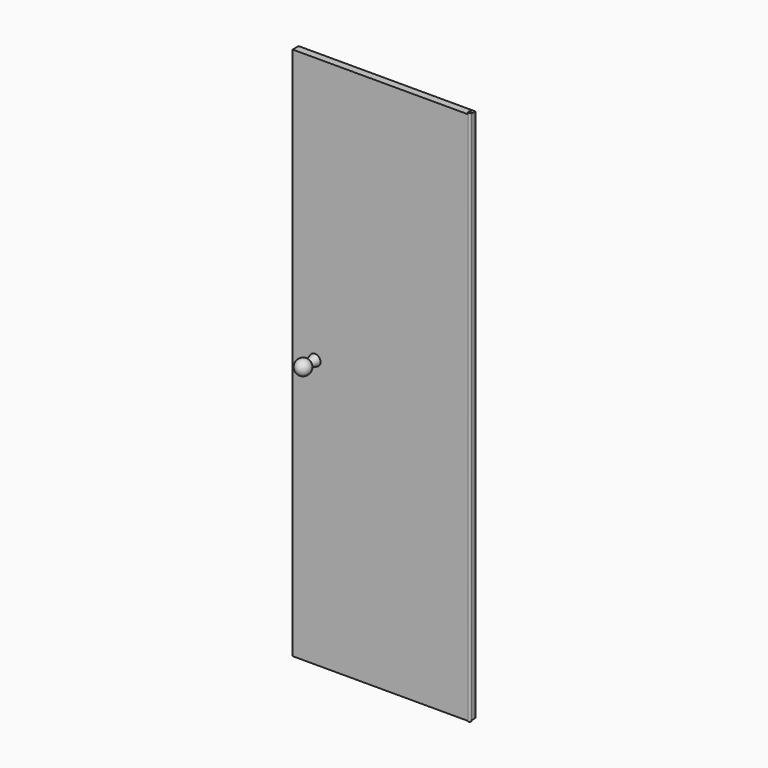
from build123d import *

# Parameters (mm, degrees)
F1_DEPTH = 25.4
F8_R     = 4.7625
F9_DEPTH = 1828.8


with BuildPart() as f1:
    # F0 (on Front) → F1 (new body)
    with BuildSketch(Plane.XZ):
        Polygon((0, 914.4), (0, 0), (603.25, 0), (603.25, 1822.45), (0, 1822.45), align=None)
    extrude(amount=F1_DEPTH)

    # F5: sweep along a path in F4
    with BuildLine(Plane.XZ.offset(25.4)) as f5_path:
        CenterArc((76.2, 914.4), 21.6276719324, 0, 360)
    # F3 (on offset) → F5 (sweep)
    with BuildSketch(Plane.XY.offset(914.4)):
        with BuildLine():
            Line((57.15, -25.4), (64.6942216848, -53.5554186313))
            ThreePointArc((64.6942216848, -53.5554186313), (51.4984578744, -82.1155571689), (76.2, -101.6))
            Line((76.2, -101.6), (76.2, -25.4))
            Line((76.2, -25.4), (57.15, -25.4))
        make_face()
    sweep(path=f5_path.line)

    # F7: F1 across plane


with BuildPart() as f1_1:
    add(f1.part)
    add(f1.part.mirror(Plane.XZ.offset(12.7)))

    # F8 (on Top) → F9 (join)
    with BuildSketch(Plane.XY):
        with Locations((602.3163199425, -23.3668256551)):
            Circle(F8_R)
    extrude(amount=F9_DEPTH)


solid = f1_1.part
